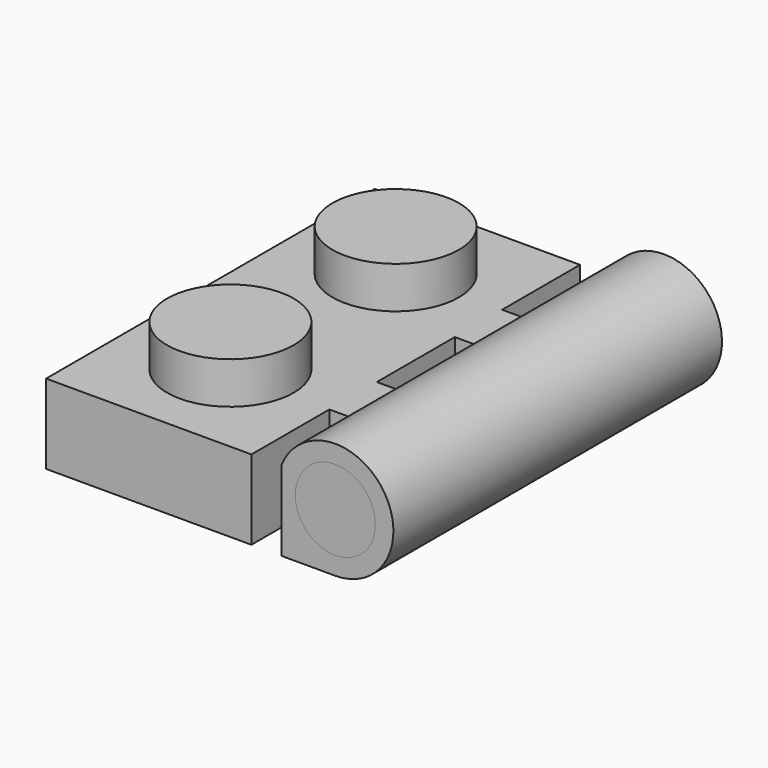
from build123d import *

# Parameters (mm, degrees)
F0_W     = 7.95
F0_H     = 15.9
F0_R     = 2.45
F1_DEPTH = 3.08
F2_DEPTH = 4.7
F3_R     = 1.55
F4_DEPTH = 15.9
F5_W     = 1.1552212406
F5_H     = 3.77
F6_DEPTH = 25
F7_DEPTH = 15.9
F8_R     = 1.5205459649
F9_DEPTH = 3.77


with BuildPart() as f1:
    # F0 (on Top) → F1 (new body)
    with BuildSketch(Plane.XY):
        with Locations((3.975, -7.95)):
            Rectangle(F0_W, F0_H)
        with Locations((3.975, -11.95)):
            Circle(F0_R, mode=Mode.SUBTRACT)
        with Locations((3.975, -3.95)):
            Circle(F0_R, mode=Mode.SUBTRACT)
    extrude(amount=F1_DEPTH)

    # F0 (on Top) → F2 (join)
    with BuildSketch(Plane.XY):
        with Locations((3.975, -11.95)):
            Circle(F0_R)
        with Locations((3.975, -3.95)):
            Circle(F0_R)
    extrude(amount=F2_DEPTH)

    # F3 (on face) → F4 (join)
    with BuildSketch(Plane.XZ.offset(15.9)):
        with BuildLine():
            Line((7.95, 0), (11.1965366161, 0))
            ThreePointArc((11.1965366161, 0), (13.057987663, 3.513922466), (9.1052212406, 3.08))
            Line((9.1052212406, 3.08), (7.95, 3.08))
            Line((7.95, 3.08), (7.95, 0))
        make_face()
        with Locations((11.1965366161, 2.25)):
            Circle(F3_R, mode=Mode.SUBTRACT)
    extrude(amount=-F4_DEPTH)

    # F5 (on face) → F6 (cut)
    with BuildSketch(Plane.XY.offset(3.08)):
        with Locations((8.5276106203, -1.885)):
            Rectangle(F5_W, F5_H)
        with Locations((8.5276106203, -14.015)):
            Rectangle(F5_W, F5_H)
        with Locations((8.5276106203, -7.945)):
            Rectangle(F5_W, F5_H)
    extrude(amount=-F6_DEPTH, mode=Mode.SUBTRACT)

    # F8 (on face) → F9 (cut)
    with BuildSketch(Plane.XZ.offset(15.9)):
        with BuildLine():
            Line((9.1052212406, 0), (10.5373981893, 0))
            ThreePointArc((10.5373981893, 0), (12.6789284615, 4.0664464987), (9.1243527191, 1.1531785184))
            Line((9.1243527191, 1.1531785184), (9.1052212406, 0))
        make_face()
        with Locations((11.1965366161, 2.25)):
            Circle(F8_R, mode=Mode.SUBTRACT)
    extrude(amount=F9_DEPTH, mode=Mode.SUBTRACT)


with BuildPart() as f7:
    # F3 (on face) → F7 (new body)
    with BuildSketch(Plane.XZ.offset(15.9)):
        with Locations((11.1965366161, 2.25)):
            Circle(F3_R)
    extrude(amount=-F7_DEPTH)


solid = Compound([f1.part, f7.part])
